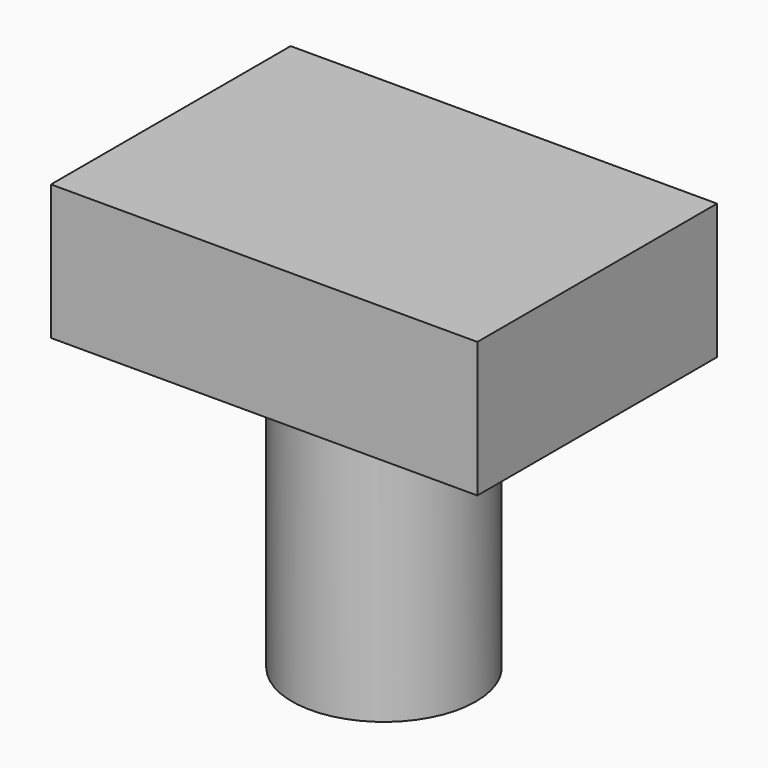
from build123d import *

# Parameters (mm, degrees)
F0_W     = 37.842602
F0_H     = 26.58715
F1_DEPTH = 12
F2_R     = 8.162544
F3_DEPTH = 25


with BuildPart() as f1:
    # F0 (on Top) → F1 (new body)
    with BuildSketch(Plane.XY):
        Rectangle(F0_W, F0_H)
    extrude(amount=-F1_DEPTH)

    # F2 (on face) → F3 (join)
    with BuildSketch(Plane(origin=(0, 0, -12), x_dir=(1, 0, 0), z_dir=(0, 0, -1))):
        Circle(F2_R)
    extrude(amount=F3_DEPTH)


solid = f1.part
